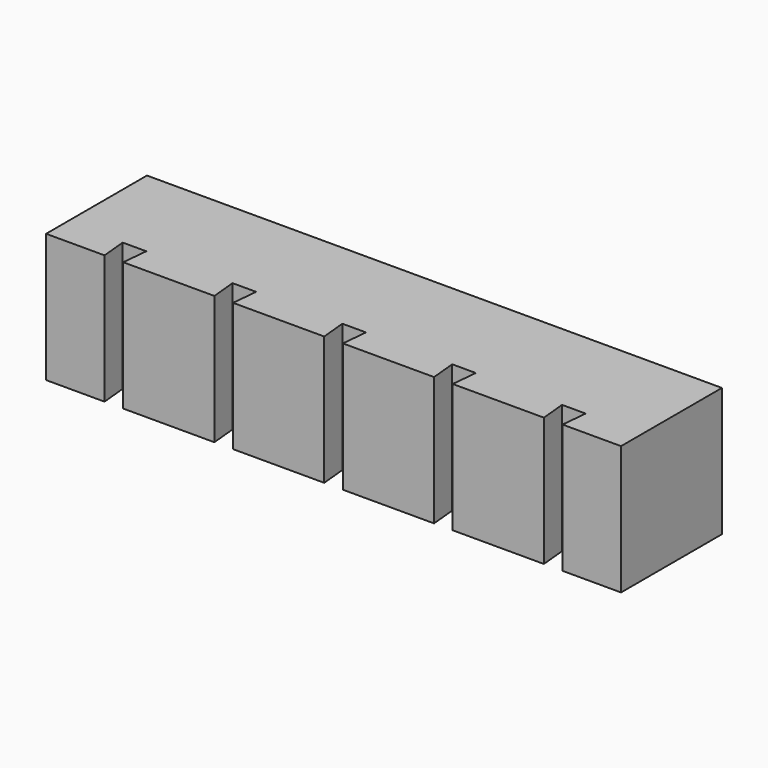
from build123d import *

# Parameters (mm, degrees)
F1_DEPTH = 3.8


with BuildPart() as f1:
    # F0 (on Top) → F1 (new body)
    with BuildSketch(Plane.XY):
        Polygon((0, 3.72), (0, 0), (1.725, 0), (1.6515, 0.76), (2, 0.76), (2.3485, 0.76), (2.275, 0), (4.965, 0), (4.891419, 0.76), (5.24, 0.76), (5.588581, 0.76), (5.515, 0), (8.205, 0), (8.131419, 0.76), (8.48, 0.76), (8.828581, 0.76), (8.755, 0), (11.445, 0), (11.371419, 0.76), (11.72, 0.76), (12.068581, 0.76), (11.995, 0), (14.685, 0), (14.611419, 0.76), (14.96, 0.76), (15.308581, 0.76), (15.235, 0), (16.96, 0), (16.96, 3.72), align=None)
    extrude(amount=F1_DEPTH)


solid = f1.part
